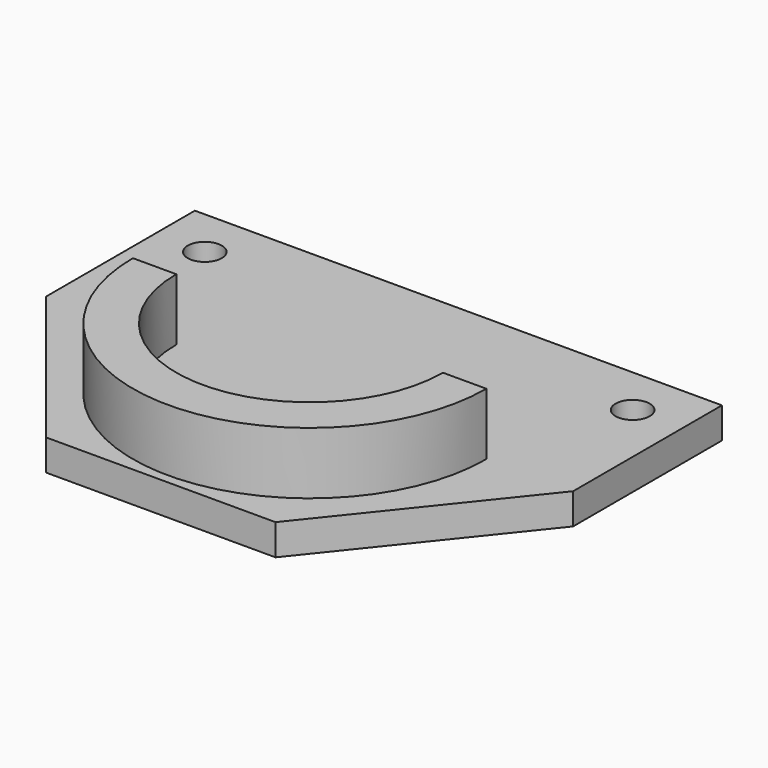
from build123d import *

# Parameters (mm, degrees)
F1_DEPTH = 5
F3_DEPTH = 15
F4_D     = 5.5
F4_DEPTH = 13.5
F4_TIP   = 1.6523667023


with BuildPart() as f1:
    # F0 (on Top) → F1 (new body)
    with BuildSketch(Plane.XY):
        Polygon((42.5, 30), (-42.5, 30), (-42.5, 0), (-18.5, -30), (18.5, -30), (42.5, 0), align=None)
    extrude(amount=F1_DEPTH)

    # F2 (on Top) → F3 (join)
    with BuildSketch(Plane.XY):
        with BuildLine():
            ThreePointArc((21.5, 0), (0, -21.5), (-21.5, 0))
            Line((-21.5, 0), (-28.5, 0))
            ThreePointArc((-28.5, 0), (0, -28.5), (28.5, 0))
            Line((28.5, 0), (21.5, 0))
        make_face()
    extrude(amount=F3_DEPTH)

    # F4
    with Locations(Plane(origin=(0, 0, 0), x_dir=(1, 0, 0), z_dir=(0, 0, -1))):
        with Locations((-34.5, -22), (34.5, -22)):
            Hole(F4_D / 2, depth=F4_DEPTH)
            with Locations((0, 0, -(F4_DEPTH + F4_TIP / 2))):  # 118° drill point
                Cone(0, F4_D / 2, F4_TIP, mode=Mode.SUBTRACT)


solid = f1.part
